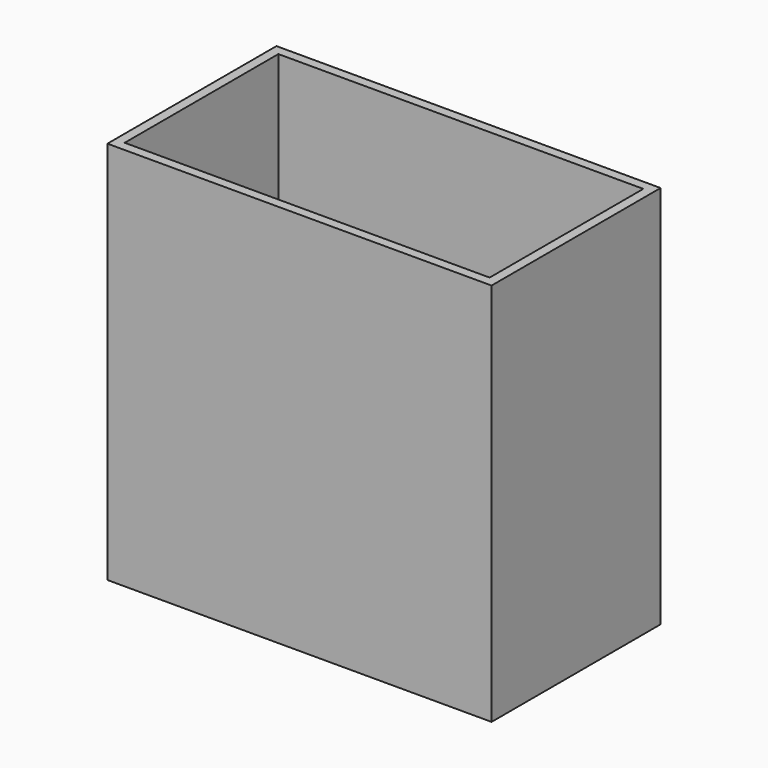
from build123d import *

# Parameters (mm, degrees)
F0_W     = 127
F0_H     = 69.85
F0_W_2   = 120.65
F0_H_2   = 63.5
F1_DEPTH = 127
F2_R     = 6.815082
F3_DEPTH = 25.4


with BuildPart() as f1:
    # F0 (on Top) → F1 (new body)
    with BuildSketch(Plane.XY):
        Rectangle(F0_W, F0_H)
        Rectangle(F0_W_2, F0_H_2, mode=Mode.SUBTRACT)
    extrude(amount=F1_DEPTH)

    # F2 (on Right) → F3 (cut)
    with BuildSketch(Plane.YZ):
        with Locations((-17.673852, 52.945733)):
            Circle(F2_R)
    extrude(amount=-F3_DEPTH, mode=Mode.SUBTRACT)


solid = f1.part
